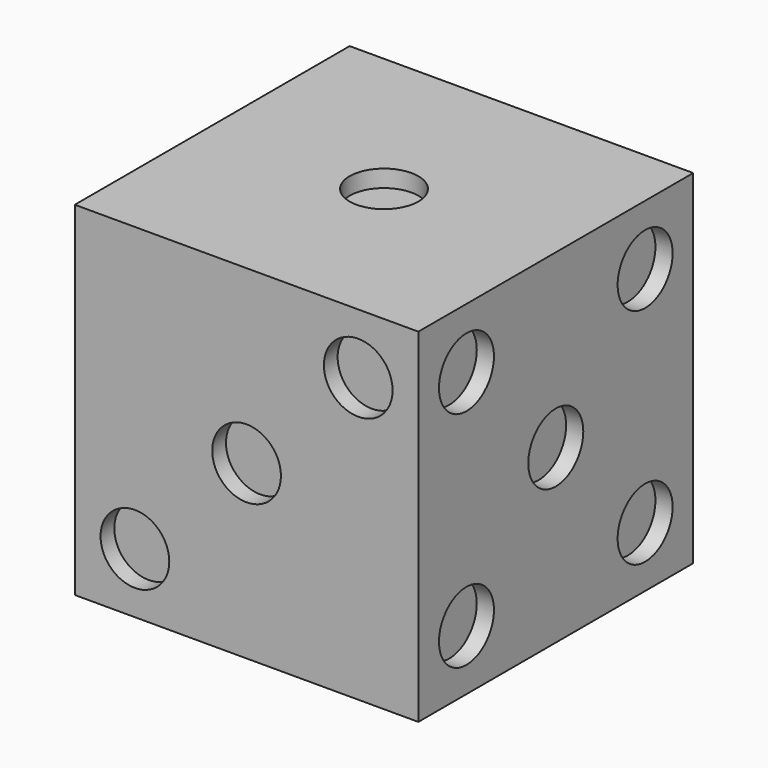
from build123d import *

# Parameters (mm, degrees)
F0_W      = 127
F0_H      = 127
F1_DEPTH  = 127
F2_R      = 12.7
F3_DEPTH  = 6.35
F4_R      = 12.7
F5_DEPTH  = 6.35
F6_R      = 12.7
F7_DEPTH  = 6.35
F8_R      = 12.7
F9_DEPTH  = 6.35
F10_R     = 12.7
F11_DEPTH = 6.35
F12_R     = 12.7
F13_DEPTH = 6.35


with BuildPart() as f1:
    # F0 (on Top) → F1 (new body)
    with BuildSketch(Plane.XY):
        with Locations((63.5, 63.5)):
            Rectangle(F0_W, F0_H)
    extrude(amount=F1_DEPTH)

    # F2 (on face) → F3 (cut)
    with BuildSketch(Plane.XY.offset(127)):
        with Locations((63.5, 63.5)):
            Circle(F2_R)
    extrude(amount=-F3_DEPTH, mode=Mode.SUBTRACT)

    # F4 (on face) → F5 (cut)
    with BuildSketch(Plane(origin=(0, 0, 0), x_dir=(0, -1, 0), z_dir=(-1, 0, 0))):
        with Locations((-104.775, 22.225)):
            Circle(F4_R)
        with Locations((-22.225, 104.775)):
            Circle(F4_R)
    extrude(amount=-F5_DEPTH, mode=Mode.SUBTRACT)

    # F6 (on face) → F7 (cut)
    with BuildSketch(Plane.XZ):
        with Locations((22.225, 22.225)):
            Circle(F6_R)
        with Locations((63.5, 63.5)):
            Circle(F6_R)
        with Locations((104.775, 104.775)):
            Circle(F6_R)
    extrude(amount=-F7_DEPTH, mode=Mode.SUBTRACT)

    # F8 (on face) → F9 (cut)
    with BuildSketch(Plane(origin=(0, 127, 0), x_dir=(-1, 0, 0), z_dir=(0, 1, 0))):
        with Locations((-104.775, 104.775)):
            Circle(F8_R)
        with Locations((-104.775, 22.225)):
            Circle(F8_R)
        with Locations((-22.225, 22.225)):
            Circle(F8_R)
        with Locations((-22.225, 104.775)):
            Circle(F8_R)
    extrude(amount=-F9_DEPTH, mode=Mode.SUBTRACT)

    # F10 (on face) → F11 (cut)
    with BuildSketch(Plane.YZ.offset(127)):
        with Locations((63.5, 63.5)):
            Circle(F10_R)
        with Locations((104.775, 104.775)):
            Circle(F10_R)
        with Locations((22.225, 22.225)):
            Circle(F10_R)
        with Locations((22.225, 104.775)):
            Circle(F10_R)
        with Locations((104.775, 22.225)):
            Circle(F10_R)
    extrude(amount=-F11_DEPTH, mode=Mode.SUBTRACT)

    # F12 (on face) → F13 (cut)
    with BuildSketch(Plane(origin=(0, 0, 0), x_dir=(1, 0, 0), z_dir=(0, 0, -1))):
        with Locations((63.5, -104.775)):
            Circle(F12_R)
        with Locations((22.225, -104.775)):
            Circle(F12_R)
        with Locations((104.775, -104.775)):
            Circle(F12_R)
        with Locations((104.775, -22.225)):
            Circle(F12_R)
        with Locations((63.5, -22.225)):
            Circle(F12_R)
        with Locations((22.225, -22.225)):
            Circle(F12_R)
    extrude(amount=-F13_DEPTH, mode=Mode.SUBTRACT)


solid = f1.part
